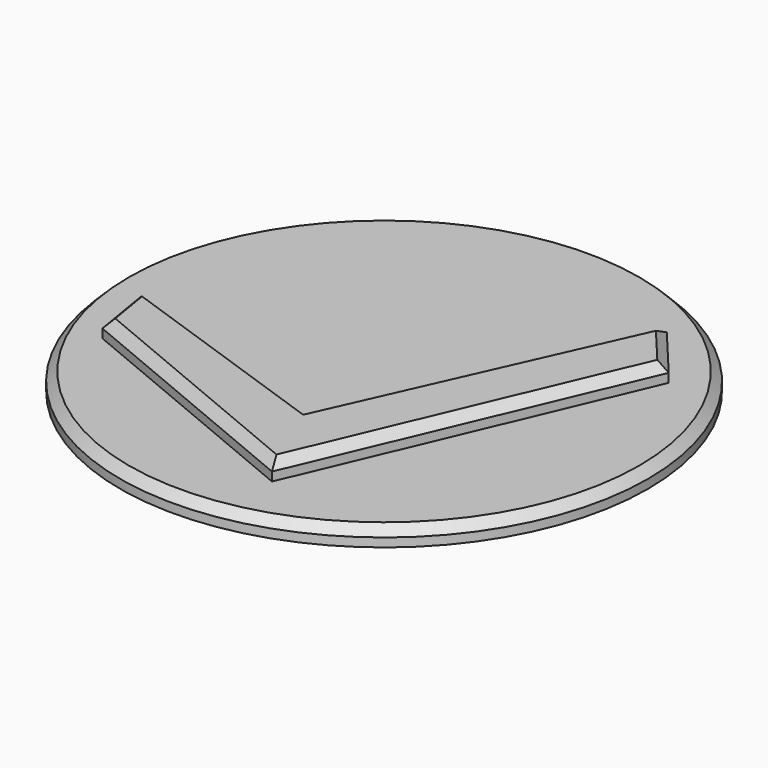
from build123d import *

# Parameters (mm, degrees)
SKETCH_R        = 15
PAD_DEPTH       = 1
PAD001_DEPTH    = 1
CHAMFER_SIZE    = 0.5
CHAMFER001_SIZE = 0.5


with BuildPart() as part:
    # Sketch → Pad (new body)
    with BuildSketch(Plane.XY):
        Circle(SKETCH_R)
    extrude(amount=PAD_DEPTH)

    # Sketch001 (on Face3 of Pad) → Pad001 (join)
    with BuildSketch(Plane.XY.offset(1)):
        Polygon((-12.321818, -1.832733), (-11.742344, -5.332733), (2.727027, -11.373328), (10.548595, 7.033819), (8.048595, 10.020412), (0.727027, -6.373328), align=None)
    extrude(amount=PAD001_DEPTH)

    # Chamfer
    chamfer_edges = [part.edges().sort_by_distance(p)[0] for p in [
        (-4.507658, -8.353031, 2),
        (-12.032081, -3.582733, 2),
        (-5.797395, -4.103031, 2),
        (4.387811, 1.823542, 2),
        (6.637811, -2.169755, 2),
        (9.298595, 8.527115, 2),
    ]]
    chamfer(chamfer_edges, length=CHAMFER_SIZE)

    # Chamfer001
    chamfer001_edges = [part.edges().sort_by_distance(p)[0] for p in [
        (-15, 0, 1),
    ]]
    chamfer(chamfer001_edges, length=CHAMFER001_SIZE)


solid = part.part
